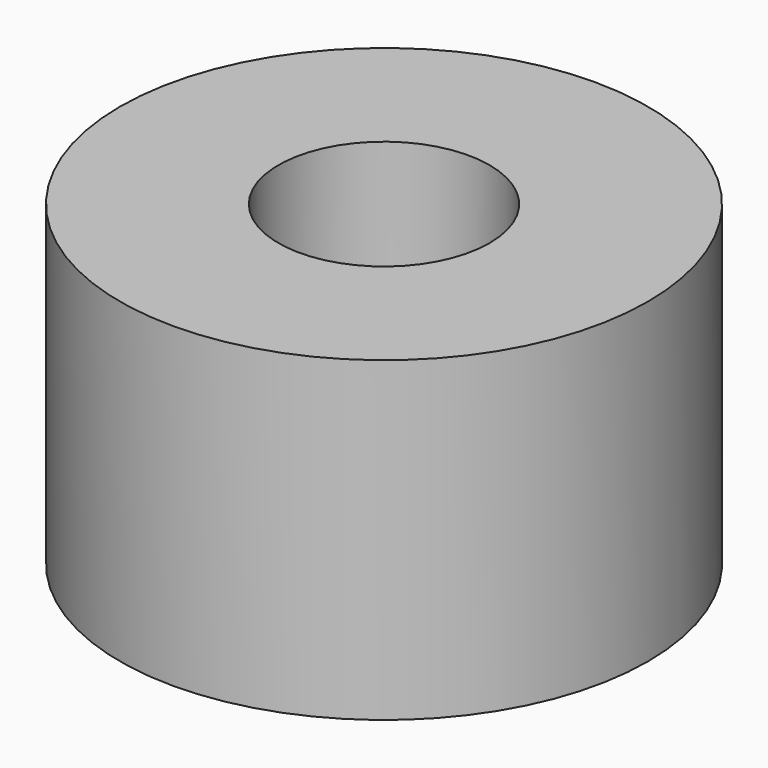
from build123d import *

# Parameters (mm, degrees)
SKETCH_R   = 5
SKETCH_R_2 = 2
PAD_DEPTH  = 6


with BuildPart() as part:
    # Sketch → Pad (new body)
    with BuildSketch(Plane.XY):
        Circle(SKETCH_R)
        Circle(SKETCH_R_2, mode=Mode.SUBTRACT)
    extrude(amount=PAD_DEPTH)


solid = part.part
